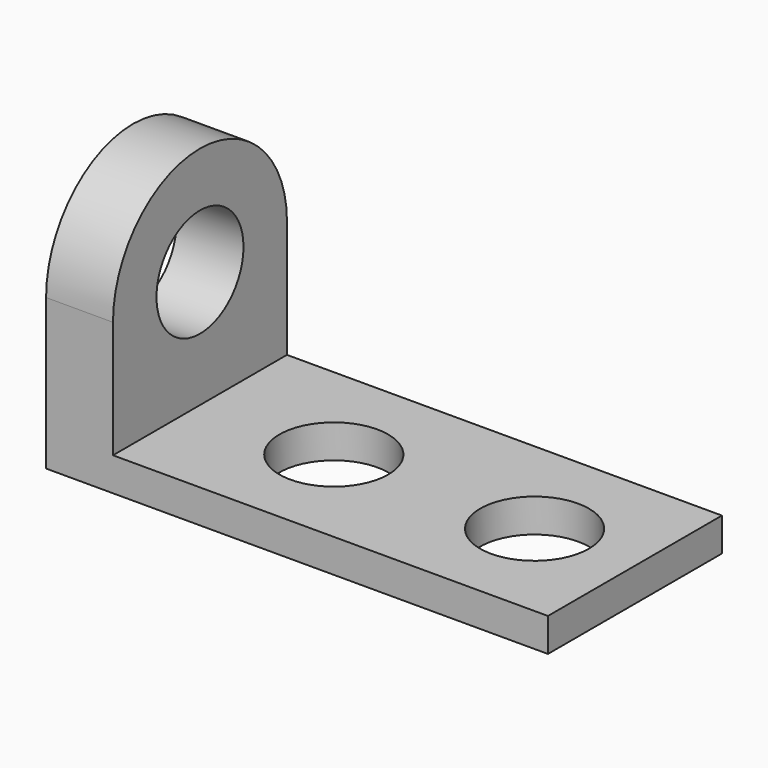
from build123d import *

# Parameters (mm, degrees)
F1_DEPTH = 82.55
F3_DEPTH = 25.4
F4_R     = 20.6375
F5_DEPTH = 25.4
F6_R     = 20.6375
F7_DEPTH = 25.4


with BuildPart() as f1:
    # F0 (on Front) → F1 (new body)
    with BuildSketch(Plane.XZ):
        Polygon((0, 114.3), (0, 0), (190.5, 0), (190.5, 12.7), (25.4, 12.7), (25.4, 114.3), align=None)
    extrude(amount=F1_DEPTH)

    # F2 (on face) → F3 (cut)
    with BuildSketch(Plane.YZ.offset(25.4)):
        with BuildLine():
            ThreePointArc((-82.55, 57.15), (-41.275, 98.425), (0, 57.15))
            Line((0, 57.15), (0, 114.3))
            Line((0, 114.3), (-82.55, 114.3))
            Line((-82.55, 114.3), (-82.55, 57.15))
        make_face()
    extrude(amount=-F3_DEPTH, mode=Mode.SUBTRACT)

    # F4 (on face) → F5 (cut, through all)
    with BuildSketch(Plane.YZ.offset(25.4)):
        with Locations((-41.275, 57.15)):
            Circle(F4_R)
    extrude(amount=-F5_DEPTH, mode=Mode.SUBTRACT)

    # F6 (on face) → F7 (cut)
    with BuildSketch(Plane.XY.offset(12.7)):
        with Locations((76.2, -41.275)):
            Circle(F6_R)
        with Locations((152.4, -41.275)):
            Circle(F6_R)
    extrude(amount=-F7_DEPTH, mode=Mode.SUBTRACT)


solid = f1.part
